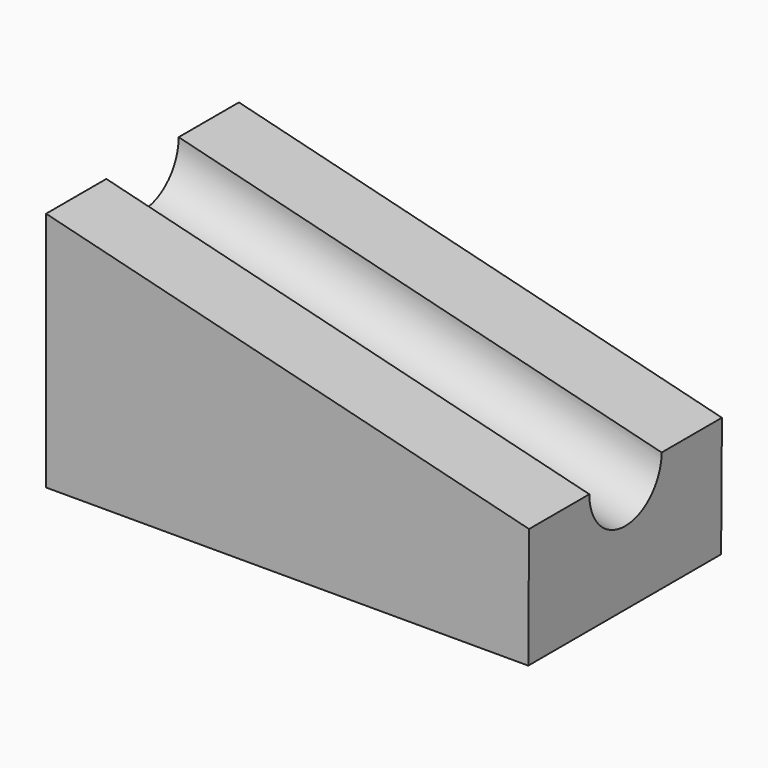
from build123d import *

# Parameters (mm, degrees)
F1_DEPTH = 24
F2_W     = 99.111150098
F2_H     = 9
F2_W_2   = 5.3233464885


with BuildPart() as f1:
    # F0 (on Front) → F1 (new body, symmetric)
    with BuildSketch(Plane.XZ):
        Polygon((-28.5438378341, 48), (-28.5438378341, 0), (67.4561621659, 0), (67.6174540565, 23.9994580132), align=None)
    extrude(amount=F1_DEPTH, both=True)

    # F2 (on face) → F3 (revolve, cut)
    with BuildSketch(Plane(origin=(9.6037996504, 0, 38.4788719333), x_dir=(0.9702368684, 0, -0.2421578396), z_dir=(0.2421578396, 0, 0.9702368684))):
        with Locations((10.2377149176, 4.5)):
            Rectangle(F2_W, F2_H)
        with Locations((62.4549632108, 4.5)):
            Rectangle(F2_W_2, F2_H)
    revolve(axis=Axis((22.1192616243, 0, 35.3551839641), (0.9702368684, 0, -0.2421578396)), mode=Mode.SUBTRACT)


solid = f1.part
